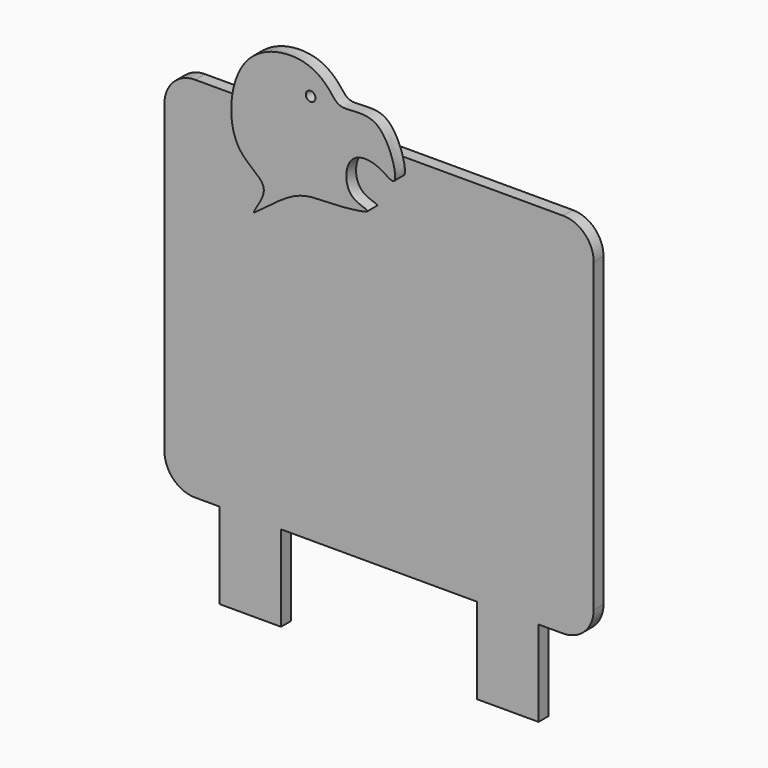
from build123d import *

# Parameters (mm, degrees)
F1_W     = 50
F1_H     = 70
F2_DEPTH = 10
F3_R     = 25
F4_R     = 3.9527319646
F5_DEPTH = 10


with BuildPart() as f2:
    # F1 (on offset) → F2 (new body)
    with BuildSketch(Plane.XZ.offset(240.86684)):
        Polygon((130, 100), (175, 100), (175, 400), (-175, 400), (-175, 100), (-130, 100), (-80, 100), (80, 100), align=None)
        with Locations((105, 65)):
            Rectangle(F1_W, F1_H)
        with Locations((-105, 65)):
            Rectangle(F1_W, F1_H)
    extrude(amount=F2_DEPTH)

    # F3
    f3_edges = [f2.edges().sort_by_distance(p)[0] for p in [
        (-175, -245.86684, 400),
        (175, -245.86684, 400),
        (175, -245.86684, 100),
        (-175, -245.86684, 100),
    ]]
    fillet(f3_edges, radius=F3_R)

    # F4 (on face) → F5 (join)
    with BuildSketch(Plane.XZ.offset(250.86684)):
        with BuildLine():
            add(Edge.make_bspline(
                [(-106.4053260336, 369.6267831618), (-116.5294216486, 385.7105531731), (-111.8433600419, 443.7645498422), (-53.4456719271, 454.2135198626), (-31.9041387158, 435.8863296302), (-24.0335530968, 421.6259684469), (11.6907515364, 434.6754396446), (26.9640306209, 376.5535271052), (7.2428167344, 395.7522940928), (-19.2782535926, 396.5623960806), (-20.9965512644, 361.6621321272), (10.3457900586, 358.0095102067), (-35.6074460072, 352.2224158565), (-60.6708170695, 355.8217329897), (-106.0468089127, 314.4821247585), (-75.3299910913, 351.271050391), (-99.2978619343, 358.335422206), (-106.4053260336, 369.6267831618)],
                knots=[0, 0, 0, 0, 0.1001025468, 0.1873335166, 0.250838735, 0.2959573572, 0.3635228741, 0.4405566981, 0.4873097006, 0.5459903161, 0.608978524, 0.6572143042, 0.7243109501, 0.7983577395, 0.8736539125, 0.9297245616, 1, 1, 1, 1], degree=3))
        make_face()
        with Locations((-47.8401631117, 425.4218935966)):
            Circle(F4_R, mode=Mode.SUBTRACT)
    extrude(amount=F5_DEPTH)


solid = f2.part
